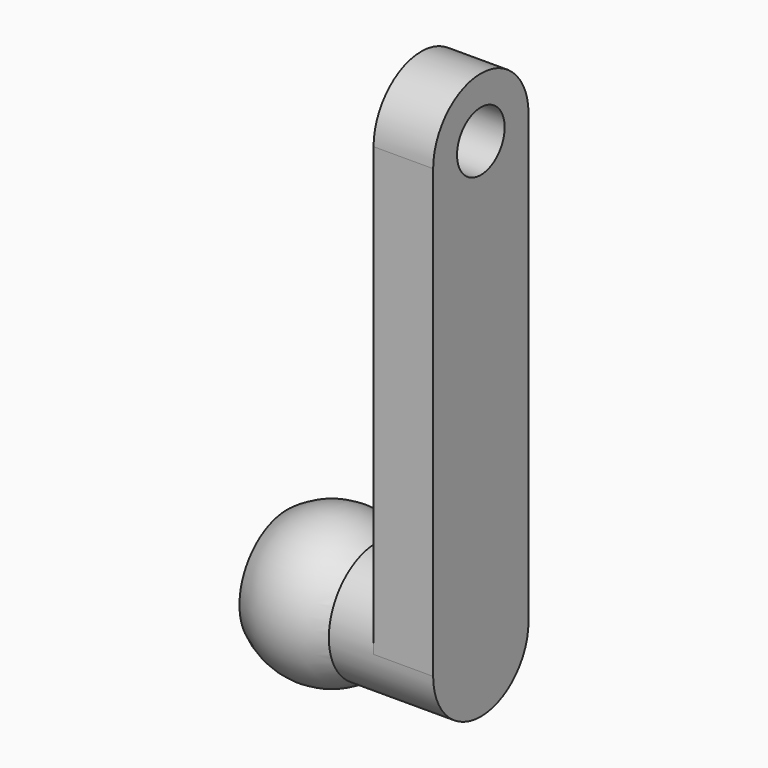
from build123d import *

# Parameters (mm, degrees)
F2_R     = 2
F3_DEPTH = 2.5
F4_R     = 2
F5_DEPTH = 3
F6_R     = 1
F7_DEPTH = 2


with BuildPart() as f1:
    # F0 (on Right) → F1 (revolve)
    with BuildSketch(Plane.YZ):
        with BuildLine():
            ThreePointArc((0, -2.5), (2.5, 0), (0, 2.5))
            Line((0, 2.5), (0, 2))
            ThreePointArc((0, 2), (2, 0), (0, -2))
            Line((0, -2), (0, -2.5))
        make_face()
    revolve(axis=Axis((0, 0, 0), (0, 0, -1)))

    # F2 (on Right) → F3 (cut)
    with BuildSketch(Plane.YZ):
        Circle(F2_R)
    extrude(amount=-F3_DEPTH, mode=Mode.SUBTRACT)

    # F4 (on Right) → F5 (join)
    with BuildSketch(Plane.YZ):
        Circle(F4_R)
    extrude(amount=F5_DEPTH)

    # F6 (on face) → F7 (join)
    with BuildSketch(Plane.YZ.offset(3)):
        with BuildLine():
            ThreePointArc((-2, 0), (0, -2), (2, 0))
            ThreePointArc((2, 0), (0, 2), (-2, 0))
        make_face()
        with BuildLine():
            ThreePointArc((-2, 0), (0, 2), (2, 0))
            Line((2, 0), (2, 15))
            ThreePointArc((2, 15), (0, 13), (-2, 15))
            Line((-2, 15), (-2, 0))
        make_face()
        with BuildLine():
            ThreePointArc((-2, 15), (0, 13), (2, 15))
            ThreePointArc((2, 15), (0, 17), (-2, 15))
        make_face()
        with Locations((0, 15)):
            Circle(F6_R, mode=Mode.SUBTRACT)
    extrude(amount=F7_DEPTH)

    # F8 (on face) → F9 (revolve, cut)
    with BuildSketch(Plane(origin=(0, 0, 0), x_dir=(0, -1, 0), z_dir=(-1, 0, 0))):
        with BuildLine():
            Line((0, 2), (0, -2))
            ThreePointArc((0, -2), (1.4142135624, -1.4142135624), (2, 0))
            ThreePointArc((2, 0), (1.4142135624, 1.4142135624), (0, 2))
        make_face()
    revolve(axis=Axis((0, 0, 0), (0, 0, 1)), mode=Mode.SUBTRACT)


solid = f1.part
